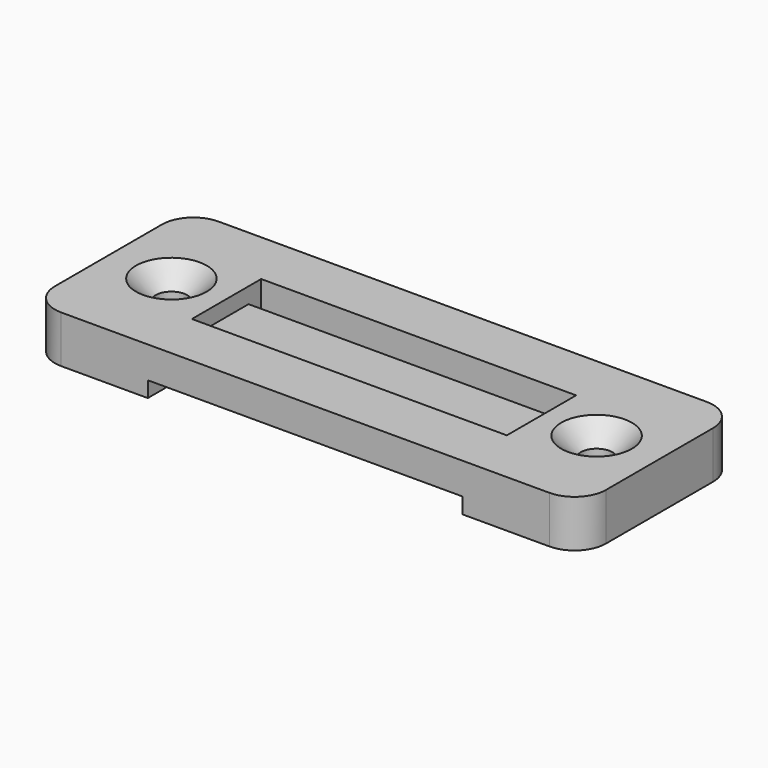
from build123d import *

# Parameters (mm, degrees)
CYLINDER001_R     = 2
CYLINDER001_DEPTH = 10
CYLINDER003_R     = 2
CYLINDER003_DEPTH = 10
BOX006_W          = 40
BOX006_H          = 11
BOX006_DEPTH      = 10
BOX001_W          = 40
BOX001_H          = 25
BOX001_DEPTH      = 2
BOX_W             = 70
BOX_H             = 25
BOX_DEPTH         = 6
CHAMFER_SIZE      = 2.49
FILLET_R          = 4
BOX003_W          = 40
BOX003_H          = 7
BOX003_DEPTH      = 4


with BuildPart() as screwhole002:
    # Cylinder001 → Cylinder001 (new body)
    with BuildSketch(Plane(origin=(-27, -7.5, 0), x_dir=(1, 0, 0), z_dir=(0, 0, 1))):
        Circle(CYLINDER001_R)
    extrude(amount=CYLINDER001_DEPTH)


with BuildPart() as screwholes:
    # Cylinder003 → Cylinder003 (new body)
    with BuildSketch(Plane(origin=(27, -7.5, 0), x_dir=(1, 0, 0), z_dir=(0, 0, 1))):
        Circle(CYLINDER003_R)
    extrude(amount=CYLINDER003_DEPTH)

    # Fusion001: union ScrewHole002
    add(screwhole002.part)


with BuildPart() as cube001:
    # Box006 → Box006 (new body)
    with BuildSketch(Plane(origin=(-20, -13, 0), x_dir=(1, 0, 0), z_dir=(0, 0, 1))):
        with Locations((20, 5.5)):
            Rectangle(BOX006_W, BOX006_H)
    extrude(amount=BOX006_DEPTH)


with BuildPart() as cube:
    # Box001 → Box001 (new body)
    with BuildSketch(Plane(origin=(-20, -20, 0), x_dir=(1, 0, 0), z_dir=(0, 0, 1))):
        with Locations((20, 12.5)):
            Rectangle(BOX001_W, BOX001_H)
    extrude(amount=BOX001_DEPTH)


with BuildPart() as fillet_body:
    # Box → Box (new body)
    with BuildSketch(Plane(origin=(-35, -20, 0), x_dir=(1, 0, 0), z_dir=(0, 0, 1))):
        with Locations((35, 12.5)):
            Rectangle(BOX_W, BOX_H)
    extrude(amount=BOX_DEPTH)

    # Cut: cut Cube
    add(cube.part, mode=Mode.SUBTRACT)

    # Cut001: cut Cube001
    add(cube001.part, mode=Mode.SUBTRACT)

    # Cut002: cut ScrewHoles
    add(screwholes.part, mode=Mode.SUBTRACT)

    # Chamfer
    chamfer_edges = [fillet_body.edges().sort_by_distance(p)[0] for p in [
        (-29, -7.5, 6),
        (25, -7.5, 6),
    ]]
    chamfer(chamfer_edges, length=CHAMFER_SIZE)

    # Fillet
    fillet_edges = [fillet_body.edges().sort_by_distance(p)[0] for p in [
        (-35, -20, 3),
        (-35, 5, 3),
        (35, 5, 3),
        (35, -20, 3),
    ]]
    fillet(fillet_edges, radius=FILLET_R)


with BuildPart() as fusion:
    # Box003 → Box003 (new body)
    with BuildSketch(Plane(origin=(-20, -11, 0), x_dir=(1, 0, 0), z_dir=(0, 0, 1))):
        with Locations((20, 3.5)):
            Rectangle(BOX003_W, BOX003_H)
    extrude(amount=BOX003_DEPTH)

    # Fusion: union Fillet body
    add(fillet_body.part)


solid = fusion.part
